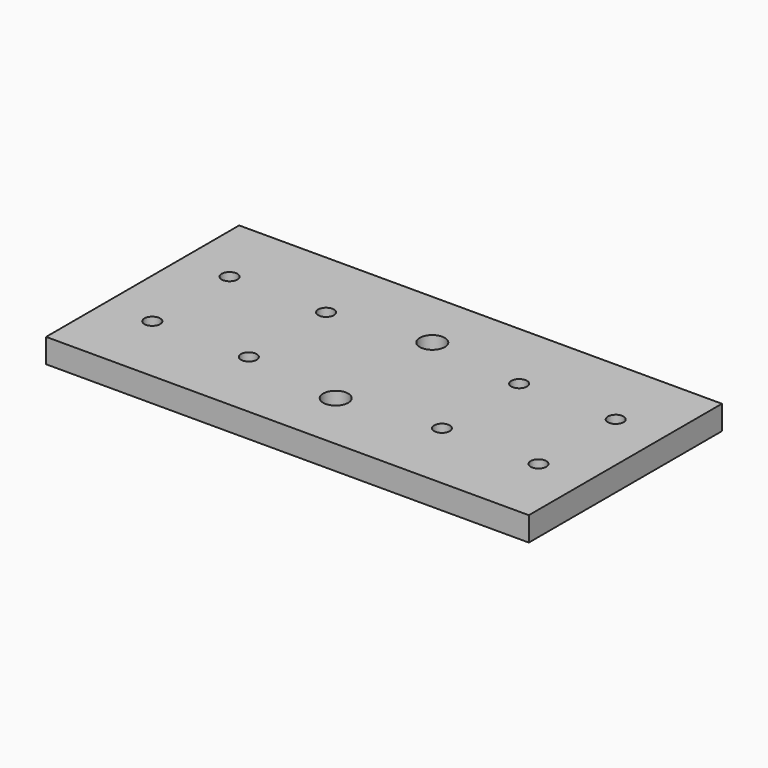
from build123d import *

# Parameters (mm, degrees)
F0_W     = 160
F0_H     = 80
F0_R     = 2.6
F0_R_2   = 4.15
F1_DEPTH = 8


with BuildPart() as f1:
    # F0 (on Top) → F1 (new body)
    with BuildSketch(Plane.XY):
        with Locations((11.825249, 2.311983)):
            Rectangle(F0_W, F0_H)
        with Locations((-52.174751, -13.688017)):
            Circle(F0_R, mode=Mode.SUBTRACT)
        with Locations((-20.174751, -13.688017)):
            Circle(F0_R, mode=Mode.SUBTRACT)
        with Locations((11.825249, -17.688017)):
            Circle(F0_R_2, mode=Mode.SUBTRACT)
        with Locations((43.825249, -13.688017)):
            Circle(F0_R, mode=Mode.SUBTRACT)
        with Locations((75.825249, -13.688017)):
            Circle(F0_R, mode=Mode.SUBTRACT)
        with Locations((-52.174751, 18.311983)):
            Circle(F0_R, mode=Mode.SUBTRACT)
        with Locations((-20.174751, 18.311983)):
            Circle(F0_R, mode=Mode.SUBTRACT)
        with Locations((11.825249, 22.311983)):
            Circle(F0_R_2, mode=Mode.SUBTRACT)
        with Locations((43.825249, 18.311983)):
            Circle(F0_R, mode=Mode.SUBTRACT)
        with Locations((75.825249, 18.311983)):
            Circle(F0_R, mode=Mode.SUBTRACT)
    extrude(amount=F1_DEPTH)


solid = f1.part
